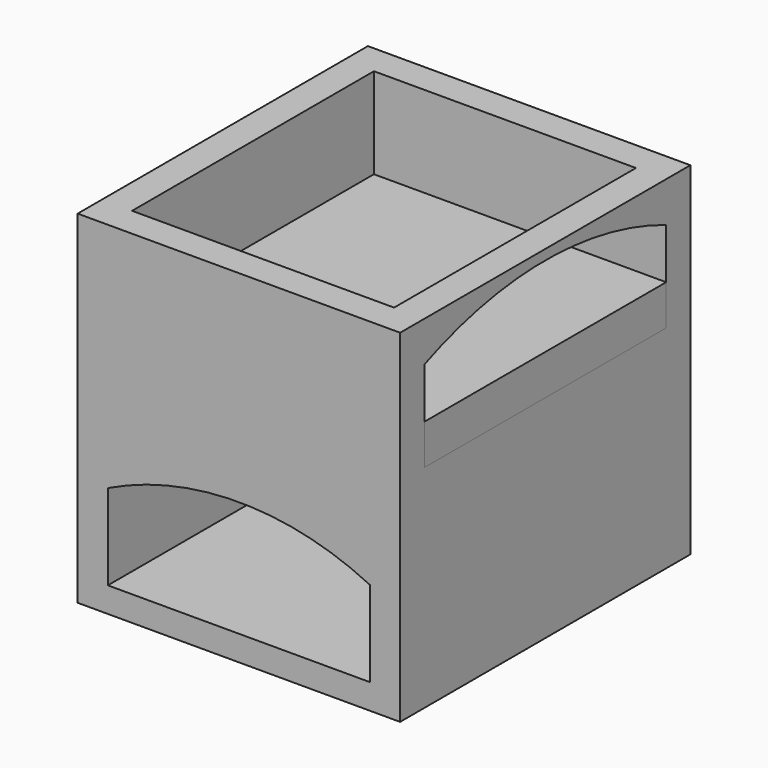
from build123d import *

# Parameters (mm, degrees)
F0_W      = 812.8
F0_H      = 914.4
F1_DEPTH  = 863.6
F3_DEPTH  = 736.6
F4_W      = 660.4
F4_H      = 762
F5_DEPTH  = 101.601
F7_DEPTH  = 914.401
F8_R      = 76.2
F9_DEPTH  = 181.6637094627
F10_W     = 25.4
F10_H     = 76.2
F11_DEPTH = 762


with BuildPart() as f1:
    # F0 (on Top) → F1 (new body)
    with BuildSketch(Plane.XY):
        Rectangle(F0_W, F0_H)
    extrude(amount=F1_DEPTH)

    # F2 (on face) → F3 (cut)
    with BuildSketch(Plane.YZ.offset(406.4)):
        with BuildLine():
            Line((-381, 762), (-381, 533.4))
            Line((-381, 533.4), (381, 533.4))
            Line((381, 533.4), (381, 762))
            ThreePointArc((381, 762), (0, 838.2), (-381, 762))
        make_face()
    extrude(amount=-F3_DEPTH, mode=Mode.SUBTRACT)

    # F4 (on face) → F5 (cut, through all)
    with BuildSketch(Plane.XY.offset(863.6)):
        Rectangle(F4_W, F4_H)
    extrude(amount=-F5_DEPTH, mode=Mode.SUBTRACT)

    # F6 (on face) → F7 (cut, through all)
    with BuildSketch(Plane(origin=(0, 457.2, 0), x_dir=(-1, 0, 0), z_dir=(0, 1, 0))):
        with BuildLine():
            Line((-330.2, 279.4), (-330.2, 63.5))
            Line((-330.2, 63.5), (330.2, 63.5))
            Line((330.2, 63.5), (330.2, 279.4))
            ThreePointArc((330.2, 279.4), (169.4391323628, 336.3029126179), (-2.5689e-06, 355.6))
            ThreePointArc((-2.5689e-06, 355.6), (-169.439134866, 336.3029120403), (-330.2, 279.4))
        make_face()
    extrude(amount=-F7_DEPTH, mode=Mode.SUBTRACT)

    # F8 (on face) → F9 (cut, through all)
    with BuildSketch(Plane.XY.offset(533.4)):
        Circle(F8_R)
    extrude(amount=-F9_DEPTH, mode=Mode.SUBTRACT)


with BuildPart() as f11:
    # F10 (on face) → F11 (new body, through all)
    with BuildSketch(Plane(origin=(0, -381, 0), x_dir=(-1, 0, 0), z_dir=(0, 1, 0))):
        Polygon((-406.4, 635), (-406.4, 609.6), (-381, 609.6), (330.2, 609.6), (330.2, 635), align=None)
        with Locations((-393.7, 571.5)):
            Rectangle(F10_W, F10_H)
    extrude(amount=F11_DEPTH)


solid = Compound([f1.part, f11.part])
